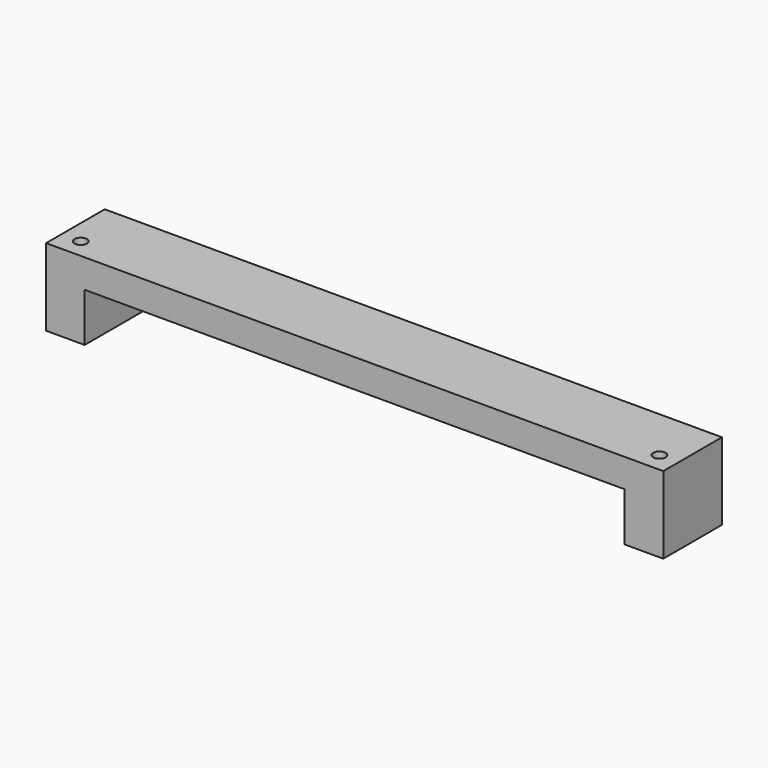
from build123d import *

# Parameters (mm, degrees)
SKETCH_W     = 80
SKETCH_H     = 9.5
PAD_DEPTH    = 10
SKETCH001_W  = 70
SKETCH001_H  = 25
POCKET_DEPTH = 6.3
SKETCH002_R  = 0.8
HOLE_DEPTH   = 10.001


with BuildPart() as part:
    # Sketch → Pad (new body)
    with BuildSketch(Plane.XY):
        with Locations((0, 2.25)):
            Rectangle(SKETCH_W, SKETCH_H)
    extrude(amount=PAD_DEPTH)

    # Sketch001 → Pocket (cut)
    with BuildSketch(Plane.XY):
        with Locations((0, -1.444008)):
            Rectangle(SKETCH001_W, SKETCH001_H)
    extrude(amount=POCKET_DEPTH, mode=Mode.SUBTRACT)

    # Sketch002 → Hole (cut, through all)
    with BuildSketch(Plane.XY):
        with Locations((37.5, 0)):
            Circle(SKETCH002_R)
        with Locations((-37.5, 0)):
            Circle(SKETCH002_R)
    extrude(amount=HOLE_DEPTH, mode=Mode.SUBTRACT)


solid = part.part
